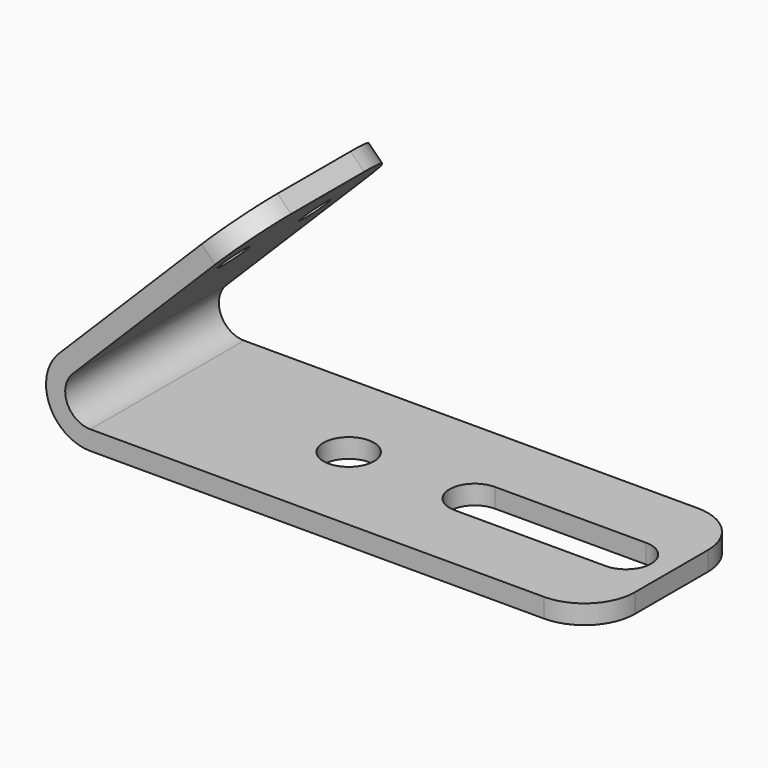
from build123d import *

# Parameters (mm, degrees)
F1_DEPTH = 241.935
F2_R     = 63.5
F3_DEPTH = 48.261
F4_R     = 127
F5_R     = 127
F6_R     = 38.1
F7_DEPTH = 76.2


with BuildPart() as f1:
    # F0 (on Front) → F1 (new body, symmetric)
    with BuildSketch(Plane.XZ):
        with BuildLine():
            Line((369.986552, 528.03906), (-79.026254, 79.026254))
            ThreePointArc((-79.026254, 79.026254), (-103.252777, -42.7687), (0, -111.76))
            Line((0, -111.76), (1270, -111.76))
            Line((1270, -111.76), (1270, -63.5))
            Line((1270, -63.5), (0, -63.5))
            ThreePointArc((0, -63.5), (-58.66635, -24.300398), (-44.901281, 44.901281))
            Line((-44.901281, 44.901281), (404.111525, 493.914087))
            Line((404.111525, 493.914087), (369.986552, 528.03906))
        make_face()
    extrude(amount=F1_DEPTH, both=True)

    # F2 (on face) → F3 (cut, through all)
    with BuildSketch(Plane.XY.offset(-63.5)):
        with Locations((457.2, 0)):
            Circle(F2_R)
        with BuildLine():
            Line((1155.7, 63.5), (774.7, 63.5))
            ThreePointArc((774.7, 63.5), (711.2, 0), (774.7, -63.5))
            Line((774.7, -63.5), (1155.7, -63.5))
            ThreePointArc((1155.7, -63.5), (1219.2, 0), (1155.7, 63.5))
        make_face()
    extrude(amount=-F3_DEPTH, mode=Mode.SUBTRACT)

    # F4
    f4_edges = [f1.edges().sort_by_distance(p)[0] for p in [
        (1270, -241.935, -87.63),
        (1270, 241.935, -87.63),
    ]]
    fillet(f4_edges, radius=F4_R)

    # F5
    f5_edges = [f1.edges().sort_by_distance(p)[0] for p in [
        (387.049039, -241.935, 510.976573),
        (387.049039, 241.935, 510.976573),
    ]]
    fillet(f5_edges, radius=F5_R)

    # F6 (on face) → F7 (cut)
    with BuildSketch(Plane(origin=(-79.026254, 0, 79.026254), x_dir=(0, -1, 0), z_dir=(-0.707107, 0, 0.707107))):
        with Locations((-127.635, 444.5)):
            Circle(F6_R)
        with Locations((127.635, 444.5)):
            Circle(F6_R)
    extrude(amount=-F7_DEPTH, mode=Mode.SUBTRACT)


solid = f1.part
